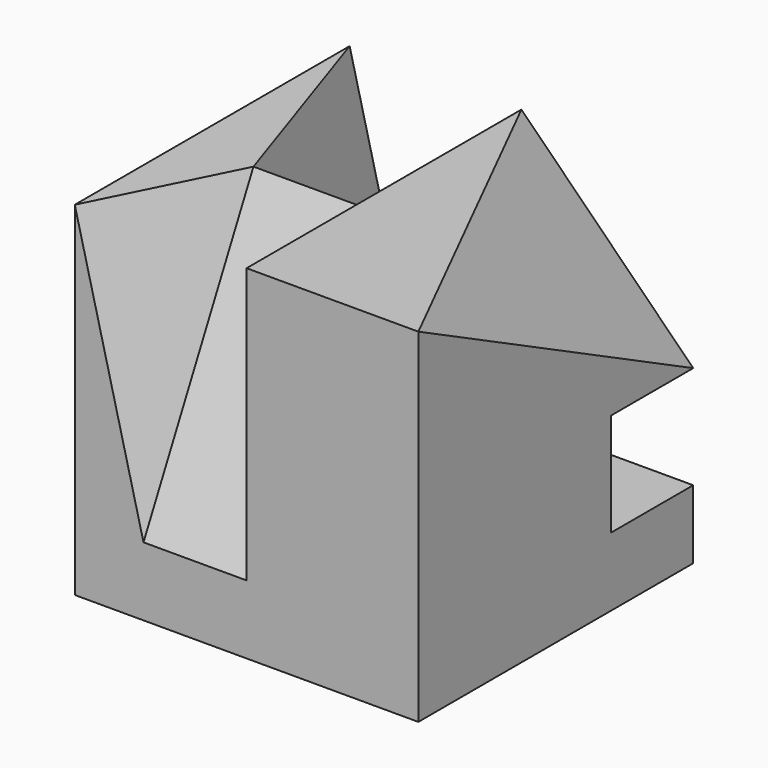
from build123d import *

# Parameters (mm, degrees)
F0_W      = 50
F0_H      = 50
F1_DEPTH  = 50
F5_W      = 15
F5_H      = 40
F8_W      = 15
F8_H      = 40
F11_DEPTH = 15


with BuildPart() as f1:
    # F0 (on Top) → F1 (new body)
    with BuildSketch(Plane.XY):
        Rectangle(F0_W, F0_H)
    extrude(amount=F1_DEPTH)

    # F6: sweep along a path in F4
    with BuildLine(Plane(origin=(-25, 0, 0), x_dir=(0, -1, 0), z_dir=(-1, 0, 0))) as f6_path:
        Line((5, 50), (25, 10))
    # F5 (on face) → F6 (sweep, cut)
    with BuildSketch(Plane.XZ.offset(25)):
        with Locations((-7.5, 30)):
            Rectangle(F5_W, F5_H)
    sweep(path=f6_path.line, mode=Mode.SUBTRACT)

    # F9: sweep along a path in F7
    with BuildLine(Plane(origin=(-25, 0, 0), x_dir=(0, -1, 0), z_dir=(-1, 0, 0))) as f9_path:
        Line((-25, 10), (5, 50))
    # F8 (on face) → F9 (sweep, cut)
    with BuildSketch(Plane(origin=(0, 25, 0), x_dir=(-1, 0, 0), z_dir=(0, 1, 0))):
        with Locations((7.5, 30)):
            Rectangle(F8_W, F8_H)
    sweep(path=f9_path.line, mode=Mode.SUBTRACT)

    # F10 (on face) → F11 (cut)
    with BuildSketch(Plane(origin=(0, 25, 0), x_dir=(-1, 0, 0), z_dir=(0, 1, 0))):
        Polygon((-5, 10), (-25, 25), (-25, 10), align=None)
    extrude(amount=-F11_DEPTH, mode=Mode.SUBTRACT)

    # F14: sweep along a path in F13
    with BuildLine(Plane(origin=(-25, 0, 0), x_dir=(0, -1, 0), z_dir=(-1, 0, 0))) as f14_path:
        Line((5, 50), (25, 10))
    # F12 (on face) → F14 (sweep, cut)
    with BuildSketch(Plane.XZ.offset(25)):
        Polygon((-15, 50), (-25, 50), (-15, 10), align=None)
    sweep(path=f14_path.line, mode=Mode.SUBTRACT)

    # F16: sweep along a path in F7
    with BuildLine(Plane(origin=(-25, 0, 0), x_dir=(0, -1, 0), z_dir=(-1, 0, 0))) as f16_path:
        Line((-25, 10), (5, 50))
    # F15 (on face) → F16 (sweep, cut)
    with BuildSketch(Plane(origin=(0, 25, 0), x_dir=(-1, 0, 0), z_dir=(0, 1, 0))):
        Polygon((25, 50), (15, 50), (15, 10), align=None)
    sweep(path=f16_path.line, mode=Mode.SUBTRACT)

    # F19: sweep along a path in F17
    with BuildLine(Plane.YZ.offset(25)) as f19_path:
        Line((-25, 50), (25, 25))
    # F18 (on face) → F19 (sweep, cut)
    with BuildSketch(Plane(origin=(0, 25, 0), x_dir=(-1, 0, 0), z_dir=(0, 1, 0))):
        Polygon((0, 50), (-25, 50), (-25, 25), align=None)
    sweep(path=f19_path.line, mode=Mode.SUBTRACT)


solid = f1.part
